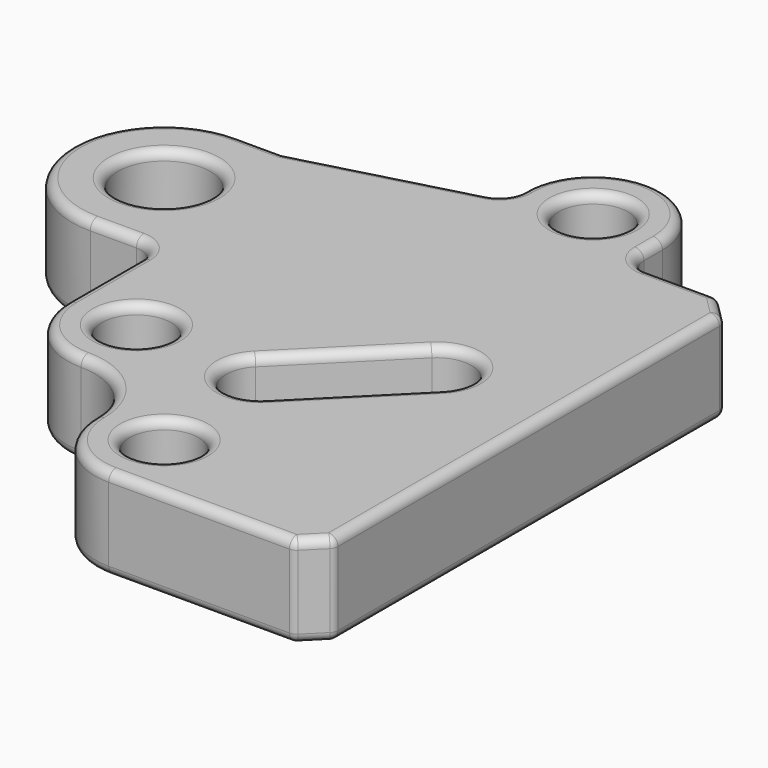
from build123d import *

# Parameters (mm, degrees)
F0_R     = 190.5
F0_R_2   = 254
F1_DEPTH = 508
F2_R     = 50.8


with BuildPart() as f1:
    # F0 (on Top) → F1 (new body)
    with BuildSketch(Plane.XY):
        with BuildLine():
            Line((-127, -127), (0, 0))
            Line((0, 0), (0, 2667))
            Line((0, 2667), (-127, 2794))
            Line((-127, 2794), (-508, 2794))
            ThreePointArc((-508, 2794), (-597.8025612107, 2831.1974387893), (-635, 2921))
            Line((-635, 2921), (-635, 3048))
            ThreePointArc((-635, 3048), (-1020.2300863955, 3428.976516821), (-1396.9060701789, 3039.5403486572))
            ThreePointArc((-1396.9060701789, 3039.5403486572), (-1422.2667250281, 2960.5311796672), (-1491.0047415106, 2914.0478849376))
            Line((-1491.0047415106, 2914.0478849376), (-2413, 2667))
            Line((-2413, 2667), (-2667, 2667))
            ThreePointArc((-2667, 2667), (-3175, 2159), (-2667, 1651))
            Line((-2667, 1651), (-2413, 1651))
            ThreePointArc((-2413, 1651), (-2323.1974387893, 1613.8025612107), (-2286, 1524))
            Line((-2286, 1524), (-2286, 1016))
            ThreePointArc((-2286, 1016), (-2174.4076836321, 746.5923163679), (-1905, 635))
            ThreePointArc((-1905, 635), (-1759.1976122689, 605.9981018868), (-1635.5923163679, 523.4076836321))
            ThreePointArc((-1635.5923163679, 523.4076836321), (-1553.0018981132, 399.8023877311), (-1524, 254))
            ThreePointArc((-1524, 254), (-1412.4076836321, -15.4076836321), (-1143, -127))
            Line((-1143, -127), (-127, -127))
        make_face()
        with Locations((-1905, 1016)):
            Circle(F0_R, mode=Mode.SUBTRACT)
        with Locations((-1143, 254)):
            Circle(F0_R, mode=Mode.SUBTRACT)
        with BuildLine():
            ThreePointArc((-1051.8756684984, 837.7166478695), (-1186.5795103145, 781.9204896855), (-1321.2833521305, 837.7166478695))
            ThreePointArc((-1321.2833521305, 837.7166478695), (-1377.0795103145, 972.4204896855), (-1321.2833521305, 1107.1243315016))
            Line((-1321.2833521305, 1107.1243315016), (-782.4679848664, 1645.9396987657))
            ThreePointArc((-782.4679848664, 1645.9396987657), (-513.0603012343, 1645.9396987657), (-513.0603012343, 1376.5320151336))
            Line((-513.0603012343, 1376.5320151336), (-1051.8756684984, 837.7166478695))
        make_face(mode=Mode.SUBTRACT)
        with Locations((-2667, 2159)):
            Circle(F0_R_2, mode=Mode.SUBTRACT)
        with Locations((-1016, 3048)):
            Circle(F0_R, mode=Mode.SUBTRACT)
    extrude(amount=F1_DEPTH)

    # F2
    f2_edges = [f1.edges().sort_by_distance(p)[0] for p in [
        (-3175, 2159, 508),
        (-2540, 1651, 508),
        (-2323.197439, 1613.802561, 508),
        (-2174.407684, 746.592316, 0),
        (-63.5, -63.5, 508),
        (0, 1333.5, 508),
        (-63.5, 2730.5, 508),
        (-317.5, 2794, 508),
        (-635, -127, 508),
        (-597.802561, 2831.197439, 508),
        (-635, 2984.5, 508),
        (-1020.230086, 3428.976517, 508),
        (-1422.266725, 2960.53118, 508),
        (-1952.002371, 2790.523942, 508),
        (-2540, 2667, 508),
        (-2286, 1270, 508),
        (-2174.407684, 746.592316, 508),
        (-1635.592316, 523.407684, 508),
        (-1412.407684, -15.407684, 508),
        (-2095.5, 1016, 508),
        (-1333.5, 254, 508),
        (-782.467985, 1107.124332, 508),
        (-1321.283352, 837.716648, 508),
        (-1051.875668, 1376.532015, 508),
        (-513.060301, 1645.939699, 508),
        (-2921, 2159, 508),
        (-1206.5, 3048, 508),
        (-635, -127, 0),
        (-63.5, -63.5, 0),
        (0, 1333.5, 0),
        (-63.5, 2730.5, 0),
        (-317.5, 2794, 0),
        (-597.802561, 2831.197439, 0),
        (-635, 2984.5, 0),
        (-1020.230086, 3428.976517, 0),
        (-1422.266725, 2960.53118, 0),
        (-1952.002371, 2790.523942, 0),
        (-2540, 2667, 0),
        (-3175, 2159, 0),
        (-2540, 1651, 0),
        (-2323.197439, 1613.802561, 0),
        (-2286, 1270, 0),
        (-1635.592316, 523.407684, 0),
        (-1412.407684, -15.407684, 0),
        (-2095.5, 1016, 0),
        (-1333.5, 254, 0),
        (-782.467985, 1107.124332, 0),
        (-1321.283352, 837.716648, 0),
        (-1051.875668, 1376.532015, 0),
        (-513.060301, 1645.939699, 0),
        (-2921, 2159, 0),
        (-1206.5, 3048, 0),
        (-127, -127, 254),
        (0, 0, 254),
        (0, 2667, 254),
        (-127, 2794, 254),
    ]]
    fillet(f2_edges, radius=F2_R)


solid = f1.part
